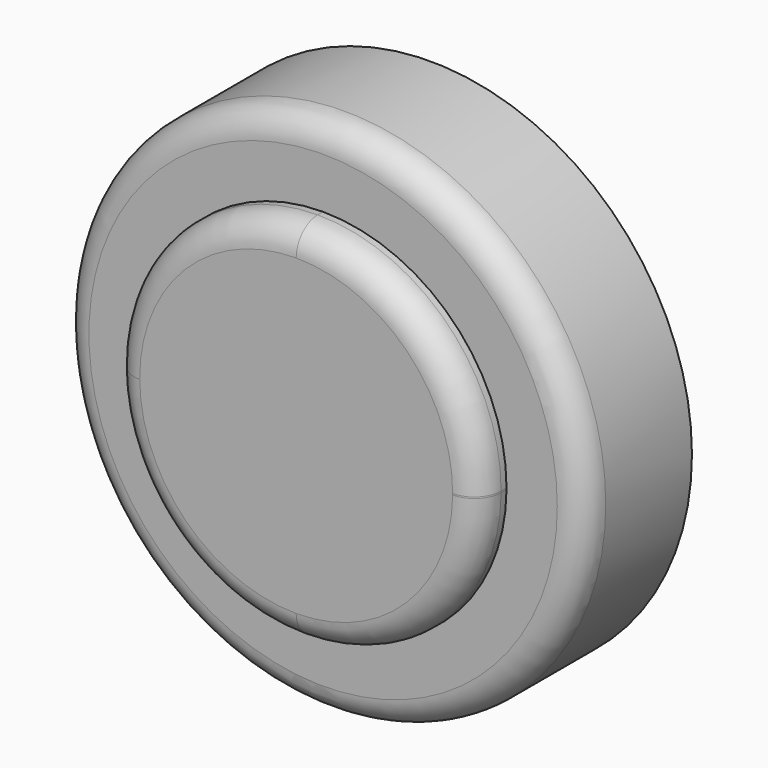
from build123d import *

# Parameters (mm, degrees)
F1_DEPTH = 31.75
F0_R     = 49.2494250879
F2_DEPTH = 25.4
F3_R     = 5.08


with BuildPart() as f1:
    # F0 (on Front) → F1 (new body)
    with BuildSketch(Plane.XZ):
        with BuildLine():
            Line((-40.602091343, 27.9041671834), (-75.195086289, 27.9041671834))
            ThreePointArc((-75.195086289, 27.9041671834), (-64.9651755745, 3.6226405346), (-40.602091343, -6.4114880449))
            Line((-40.602091343, -6.4114880449), (-40.602091343, 27.9041671834))
        make_face()
        with BuildLine():
            Line((-40.602091343, 28.1826276332), (-40.602091343, 62.7767433114))
            ThreePointArc((-40.602091343, 62.7767433114), (-65.1620784416, 52.5457118647), (-75.195086289, 27.9041671834))
            Line((-75.195086289, 27.9041671834), (-40.602091343, 27.9041671834))
            Line((-40.602091343, 27.9041671834), (-40.602091343, 28.1826276332))
        make_face()
        with BuildLine():
            ThreePointArc((-6.0090963971, 27.9041671834), (-6.0082558491, 28.0433962806), (-6.0079756649, 28.1826276332))
            ThreePointArc((-6.0079756649, 28.1826276332), (-16.1403575579, 52.6443614184), (-40.602091343, 62.7767433114))
            Line((-40.602091343, 62.7767433114), (-40.602091343, 28.1826276332))
            Line((-40.602091343, 28.1826276332), (-40.602091343, 27.9041671834))
            Line((-40.602091343, 27.9041671834), (-6.0090963971, 27.9041671834))
        make_face()
        with BuildLine():
            ThreePointArc((-40.602091343, -6.4114880449), (-16.2390071116, 3.6226405346), (-6.0090963971, 27.9041671834))
            Line((-6.0090963971, 27.9041671834), (-40.602091343, 27.9041671834))
            Line((-40.602091343, 27.9041671834), (-40.602091343, -6.4114880449))
        make_face()
    extrude(amount=F1_DEPTH)

    # F0 (on Front) → F2 (join)
    with BuildSketch(Plane.XZ):
        with Locations((-40.602091343, 28.1826276332)):
            Circle(F0_R)
        with BuildLine():
            ThreePointArc((-40.602091343, 62.7767433114), (-16.1403575579, 52.6443614184), (-6.0079756649, 28.1826276332))
            ThreePointArc((-6.0079756649, 28.1826276332), (-6.0082558491, 28.0433962806), (-6.0090963971, 27.9041671834))
            ThreePointArc((-6.0090963971, 27.9041671834), (-16.2390071116, 3.6226405346), (-40.602091343, -6.4114880449))
            ThreePointArc((-40.602091343, -6.4114880449), (-64.9651755745, 3.6226405346), (-75.195086289, 27.9041671834))
            ThreePointArc((-75.195086289, 27.9041671834), (-65.1620784416, 52.5457118647), (-40.602091343, 62.7767433114))
        make_face(mode=Mode.SUBTRACT)
    extrude(amount=F2_DEPTH)

    # F3
    f3_edges = [f1.edges().sort_by_distance(p)[0] for p in [
        (-40.602091, -31.75, 62.776743),
        (-89.851516, -25.4, 28.182628),
    ]]
    fillet(f3_edges, radius=F3_R)


solid = f1.part
